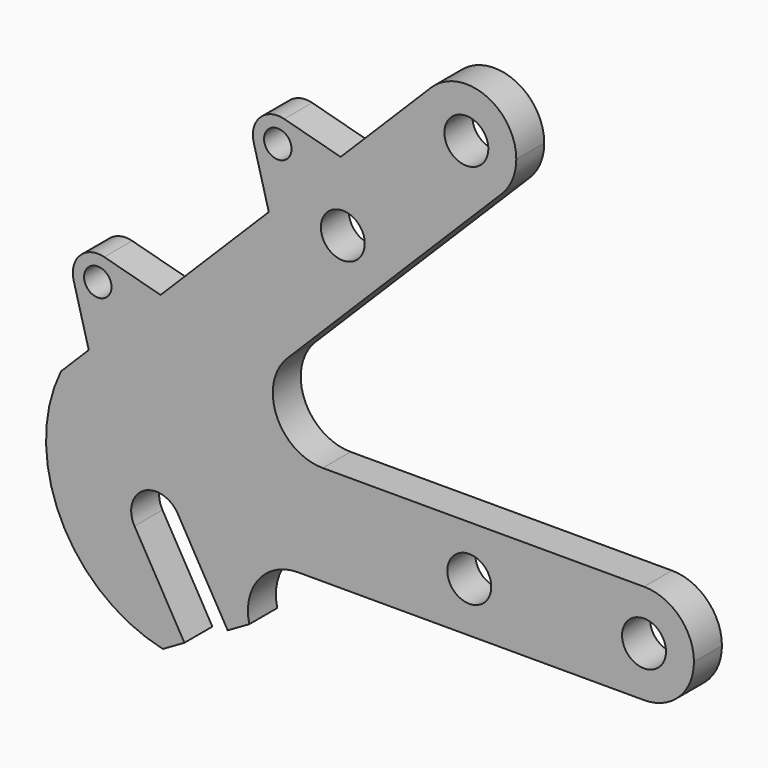
from build123d import *

# Parameters (mm, degrees)
F2_DEPTH = 7
F3_DEPTH = 7
F4_D     = 5.5
F5_D     = 8.8


with BuildPart() as f2:
    # F1 (on Front) → F2 (new body)
    with BuildSketch(Plane.XZ):
        with BuildLine():
            ThreePointArc((-176.0360002518, 0), (-168.9649324399, 2.9289321881), (-166.0360002518, 10))
            ThreePointArc((-166.0360002518, 10), (-168.9649324399, 17.0710678119), (-176.0360002518, 20))
            ThreePointArc((-176.0360002518, 20), (-186.0360002518, 10), (-176.0360002518, 0))
        make_face()
        with BuildLine():
            Line((-264.5352196047, 20), (-240.393083981, 20))
            ThreePointArc((-240.393083981, 20), (-249.6318793158, 26.1731656999), (-247.4641517568, 37.0710678479))
            Line((-247.4641517568, 37.0710678479), (-264.5352196047, 20))
        make_face()
        with BuildLine():
            Line((-272.4173313033, -22.3205080757), (-255.0968232276, -12.3205080757))
            ThreePointArc((-255.0968232276, -12.3205080757), (-261.1688868565, -7.6612498015), (-268.757077341, -8.6602540815))
            ThreePointArc((-268.757077341, -8.6602540815), (-273.4163355396, -14.7323176668), (-272.4173313033, -22.3205080757))
        make_face()
        with BuildLine():
            Line((-255.0968232276, -12.3205080757), (-262.2100718816, 0))
            Line((-262.2100718816, 0), (-263.7570772654, 0))
            ThreePointArc((-263.7570772654, 0), (-265.0968232494, -5.0000000378), (-268.757077341, -8.6602540815))
            ThreePointArc((-268.757077341, -8.6602540815), (-261.1688868565, -7.6612498015), (-255.0968232276, -12.3205080757))
        make_face()
        with BuildLine():
            ThreePointArc((-272.4173313033, -22.3205080757), (-273.4163355396, -14.7323176668), (-268.757077341, -8.6602540815))
            ThreePointArc((-268.757077341, -8.6602540815), (-276.3452678591, -9.6592582247), (-282.4173314074, -4.9999998197))
            Line((-282.4173314074, -4.9999998197), (-272.4173313033, -22.3205080757))
        make_face()
        with BuildLine():
            ThreePointArc((-265.0968232276, 5), (-269.1126993205, 8.856057447), (-274.5681672284, 9.9670523763))
            Line((-274.5681672284, 9.9670523763), (-283.7241296417, 0.811089963))
            ThreePointArc((-283.7241296417, 0.811089963), (-283.5134253602, -2.1940081707), (-282.4173314074, -4.9999998197))
            ThreePointArc((-282.4173314074, -4.9999998197), (-276.3452678591, -9.6592582247), (-268.757077341, -8.6602540815))
            ThreePointArc((-268.757077341, -8.6602540815), (-265.0968232494, -5.0000000378), (-263.7570772654, 0))
            ThreePointArc((-263.7570772654, 0), (-264.0978190025, 2.588190451), (-265.0968232276, 5))
        make_face()
        with BuildLine():
            Line((-263.7570772654, 0), (-262.2100718816, 0))
            Line((-262.2100718816, 0), (-265.0968232276, 5))
            ThreePointArc((-265.0968232276, 5), (-264.0978190025, 2.588190451), (-263.7570772654, 0))
        make_face()
        with BuildLine():
            ThreePointArc((-176.0360002518, 0), (-186.0360002518, 10), (-176.0360002518, 20))
            Line((-176.0360002518, 20), (-240.393083981, 20))
            Line((-240.393083981, 20), (-264.5352196047, 20))
            Line((-264.5352196047, 20), (-274.5681672284, 9.9670523763))
            ThreePointArc((-274.5681672284, 9.9670523763), (-269.1126993205, 8.856057447), (-265.0968232276, 5))
            Line((-265.0968232276, 5), (-262.2100718816, 0))
            Line((-262.2100718816, 0), (-245.3697865632, 0))
            Line((-245.3697865632, 0), (-176.0360002518, 0))
        make_face()
        with BuildLine():
            Line((-283.7241296417, 0.811089963), (-274.5681672284, 9.9670523763))
            ThreePointArc((-274.5681672284, 9.9670523763), (-280.8281450773, 7.0710678119), (-283.7241296417, 0.811089963))
        make_face()
        with BuildLine():
            ThreePointArc((-282.4173314074, -4.9999998197), (-283.5134253602, -2.1940081707), (-283.7241296417, 0.811089963))
            Line((-283.7241296417, 0.811089963), (-285.0226592429, -0.4874396382))
            Line((-285.0226592429, -0.4874396382), (-282.4173314074, -4.9999998197))
        make_face()
        with BuildLine():
            Line((-274.5681672284, 9.9670523763), (-264.5352196047, 20))
            Line((-264.5352196047, 20), (-292.8194908522, 20))
            ThreePointArc((-292.8194908522, 20), (-295.7992302368, 6.1376963428), (-292.0799732137, -7.544753609))
            Line((-292.0799732137, -7.544753609), (-285.0226592429, -0.4874396382))
            Line((-285.0226592429, -0.4874396382), (-283.7241296417, 0.811089963))
            ThreePointArc((-283.7241296417, 0.811089963), (-280.8281450773, 7.0710678119), (-274.5681672284, 9.9670523763))
        make_face()
        with BuildLine():
            ThreePointArc((-292.0799732137, -7.544753609), (-283.8324896653, -17.0403017463), (-272.4173313033, -22.3205080757))
            Line((-272.4173313033, -22.3205080757), (-282.4173314074, -4.9999998197))
            Line((-282.4173314074, -4.9999998197), (-285.0226592429, -0.4874396382))
            Line((-285.0226592429, -0.4874396382), (-292.0799732137, -7.544753609))
        make_face()
        with BuildLine():
            Line((-292.8194908522, 20), (-264.5352196047, 20))
            Line((-264.5352196047, 20), (-247.4641517568, 37.0710678479))
            Line((-247.4641517568, 37.0710678479), (-204.550425378, 79.9847942268))
            ThreePointArc((-204.550425378, 79.9847942268), (-218.6925610017, 79.9847942268), (-218.6925610017, 94.1269298505))
            Line((-218.6925610017, 94.1269298505), (-236.8037936181, 76.015697234))
            Line((-236.8037936181, 76.015697234), (-251.1915228084, 61.6279680438))
            Line((-251.1915228084, 61.6279680438), (-272.8662394587, 39.9532513935))
            Line((-272.8662394587, 39.9532513935), (-287.2539686489, 25.5655222033))
            Line((-287.2539686489, 25.5655222033), (-292.8194908522, 20))
        make_face()
        with BuildLine():
            Line((-290.2788043549, 36.8543627425), (-287.2539686489, 25.5655222033))
            Line((-287.2539686489, 25.5655222033), (-272.8662394587, 39.9532513935))
            Line((-272.8662394587, 39.9532513935), (-284.1550799979, 42.9780870995))
            ThreePointArc((-284.1550799979, 42.9780870995), (-281.482408522, 41.1922651131), (-280.4491752234, 38.1484579681))
            ThreePointArc((-280.4491752234, 38.1484579681), (-284.7965442623, 33.1912336612), (-290.2788043549, 36.8543627425))
        make_face()
        with BuildLine():
            ThreePointArc((-284.1550799979, 42.9780870995), (-288.9847091293, 41.683991874), (-290.2788043549, 36.8543627425))
            ThreePointArc((-290.2788043549, 36.8543627425), (-284.7965442623, 33.1912336612), (-280.4491752234, 38.1484579681))
            ThreePointArc((-280.4491752234, 38.1484579681), (-281.482408522, 41.1922651131), (-284.1550799979, 42.9780870995))
        make_face()
        with BuildLine():
            Line((-251.1915228084, 61.6279680438), (-236.8037936181, 76.015697234))
            Line((-236.8037936181, 76.015697234), (-248.0926341574, 79.04053294))
            ThreePointArc((-248.0926341574, 79.04053294), (-245.4199626814, 77.2547109536), (-244.3867293829, 74.2109038086))
            ThreePointArc((-244.3867293829, 74.2109038086), (-248.7340984218, 69.2536795017), (-254.2163585143, 72.9168085831))
            Line((-254.2163585143, 72.9168085831), (-251.1915228084, 61.6279680438))
        make_face()
        with BuildLine():
            ThreePointArc((-244.3867293829, 74.2109038086), (-245.4199626814, 77.2547109536), (-248.0926341574, 79.04053294))
            ThreePointArc((-248.0926341574, 79.04053294), (-252.9222632888, 77.7464377145), (-254.2163585143, 72.9168085831))
            ThreePointArc((-254.2163585143, 72.9168085831), (-248.7340984218, 69.2536795017), (-244.3867293829, 74.2109038086))
        make_face()
        with BuildLine():
            ThreePointArc((-218.6925610017, 94.1269298505), (-218.6925610017, 79.9847942268), (-204.550425378, 79.9847942268))
            ThreePointArc((-204.550425378, 79.9847942268), (-202.3826978647, 83.229027715), (-201.6214931898, 87.0558620386))
            ThreePointArc((-201.6214931898, 87.0558620386), (-207.7946588662, 96.2946573637), (-218.6925610017, 94.1269298505))
        make_face()
        with BuildLine():
            ThreePointArc((-255.0968232276, -12.3205080757), (-253.2185151467, -3.8034316254), (-245.3697865632, 0))
            Line((-245.3697865632, 0), (-262.2100718816, 0))
            Line((-262.2100718816, 0), (-255.0968232276, -12.3205080757))
        make_face()
        with BuildLine():
            Line((-274.5681672284, 9.9670523763), (-264.5352196047, 20))
            Line((-264.5352196047, 20), (-292.8194908522, 20))
            ThreePointArc((-292.8194908522, 20), (-295.7992302368, 6.1376963428), (-292.0799732137, -7.544753609))
            Line((-292.0799732137, -7.544753609), (-285.0226592429, -0.4874396382))
            Line((-285.0226592429, -0.4874396382), (-283.7241296417, 0.811089963))
            ThreePointArc((-283.7241296417, 0.811089963), (-280.8281450773, 7.0710678119), (-274.5681672284, 9.9670523763))
        make_face()
    extrude(amount=F2_DEPTH)

    # F0 (on Front) → F3 (cut, through all)
    with BuildSketch(Plane.XZ):
        with BuildLine():
            ThreePointArc((-278.0872042843, -2.5), (-272.4629820399, -4.8296291314), (-268.7570772654, 0))
            ThreePointArc((-268.7570772654, 0), (-268.927448134, 1.2940952255), (-269.4269502465, 2.5))
            ThreePointArc((-269.4269502465, 2.5), (-276.2570772654, 4.3301270189), (-278.0872042843, -2.5))
        make_face()
        with BuildLine():
            ThreePointArc((-269.4269502465, 2.5), (-268.927448134, 1.2940952255), (-268.7570772654, 0))
            ThreePointArc((-268.7570772654, 0), (-272.4629820399, -4.8296291314), (-278.0872042843, -2.5))
            Line((-278.0872042843, -2.5), (-268.0872042843, -19.8205080757))
            ThreePointArc((-268.0872042843, -19.8205080757), (-266.2570772654, -12.9903810568), (-259.4269502465, -14.8205080757))
            Line((-259.4269502465, -14.8205080757), (-269.4269502465, 2.5))
        make_face()
        with BuildLine():
            ThreePointArc((-258.7570772654, -17.3205080757), (-258.927448134, -16.0264128502), (-259.4269502465, -14.8205080757))
            ThreePointArc((-259.4269502465, -14.8205080757), (-266.2570772654, -12.9903810568), (-268.0872042843, -19.8205080757))
            ThreePointArc((-268.0872042843, -19.8205080757), (-262.4629820399, -22.1501372071), (-258.7570772654, -17.3205080757))
        make_face()
    extrude(amount=F3_DEPTH, mode=Mode.SUBTRACT)

    # F4 (through all)
    with Locations(Plane(origin=(0, 0, 0), x_dir=(1, 0, 0), z_dir=(0, 1, 0))):
        with Locations((-249.3867293829, -74.2109038086), (-285.4491752234, -38.1484579681)):
            Hole(F4_D / 2)

    # F5 (through all)
    with Locations(Plane(origin=(0, 0, 0), x_dir=(1, 0, 0), z_dir=(0, 1, 0))):
        with Locations((-176.0360002518, -10), (-211.6214931898, -87.0558620386), (-236.3702305314, -62.3071246971), (-211.0360002518, -10)):
            Hole(F5_D / 2)


solid = f2.part
